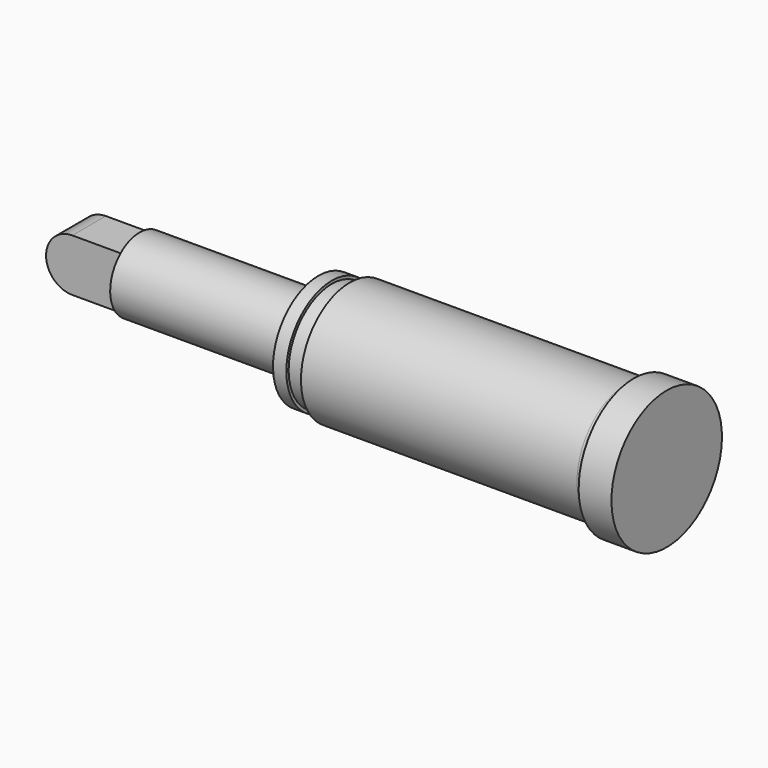
from build123d import *

# Parameters (mm, degrees)
F0_W     = 30.5150300264
F0_H     = 17.8250912577
F3_DEPTH = 10.16


with BuildPart() as f1:
    # F0 (on Front) → F1 (revolve)
    with BuildSketch(Plane.XZ):
        with BuildLine():
            Line((111.1383140087, 26.1370334774), (111.1383140087, 17.8250912577))
            Line((111.1383140087, 17.8250912577), (141.6533440351, 17.8250912577))
            Line((141.6533440351, 17.8250912577), (263.9216091484, 17.8250912577))
            Line((263.9216091484, 17.8250912577), (263.9216091484, 0))
            Line((263.9216091484, 0), (279.8266708851, 0))
            Line((279.8266708851, 0), (279.8266708851, 10.310467582))
            Line((279.8266708851, 10.310467582), (279.8266708851, 33.449973911))
            Line((279.8266708851, 33.449973911), (263.9216091484, 33.449973911))
            ThreePointArc((263.9216091484, 33.449973911), (262.77520204, 30.6823023219), (260.0075304508, 29.5358952135))
            Line((260.0075304508, 29.5358952135), (126.2801289558, 29.5358952135))
            Line((126.2801289558, 29.5358952135), (126.2801289558, 26.1370334774))
            Line((126.2801289558, 26.1370334774), (117.5876036286, 26.1370334774))
            Line((117.5876036286, 26.1370334774), (117.5876036286, 27.5390539318))
            Line((117.5876036286, 27.5390539318), (111.1383140087, 27.5390539318))
            Line((111.1383140087, 27.5390539318), (111.1383140087, 26.1370334774))
        make_face()
    revolve(axis=Axis((152.1537210792, 0, 0), (1, 0, 0)))


with BuildPart() as f2:
    # F0 (on Front) → F2 (revolve)
    with BuildSketch(Plane.XZ):
        Polygon((24.4807712734, 12.7), (24.4807712734, 0), (111.1383140087, 0), (111.1383140087, 17.8250912577), (24.4807712734, 17.8250912577), align=None)
        with Locations((126.3958290219, 8.9125456288)):
            Rectangle(F0_W, F0_H)
    revolve(axis=Axis((152.1537210792, 0, 0), (1, 0, 0)))

    # F0 (on Front) → F3 (join, symmetric)
    with BuildSketch(Plane.XZ):
        with BuildLine():
            ThreePointArc((0, 12.7), (8.9802561211, 8.9802561211), (12.7, 0))
            Line((12.7, 0), (24.4807712734, 0))
            Line((24.4807712734, 0), (24.4807712734, 12.7))
            Line((24.4807712734, 12.7), (0, 12.7))
        make_face()
        with BuildLine():
            Line((24.4807712734, 0), (12.7, 0))
            ThreePointArc((12.7, 0), (8.9802561211, -8.9802561211), (0, -12.7))
            Line((0, -12.7), (24.4807712734, -12.7))
            Line((24.4807712734, -12.7), (24.4807712734, 0))
        make_face()
        with BuildLine():
            Line((0, 0), (12.7, 0))
            ThreePointArc((12.7, 0), (8.9802561211, 8.9802561211), (0, 12.7))
            Line((0, 12.7), (0, 0))
        make_face()
        with BuildLine():
            ThreePointArc((0, -12.7), (8.9802561211, -8.9802561211), (12.7, 0))
            Line((12.7, 0), (0, 0))
            Line((0, 0), (0, -12.7))
        make_face()
        with BuildLine():
            Line((0, 0), (0, 12.7))
            ThreePointArc((0, 12.7), (-12.7, 0), (0, -12.7))
            Line((0, -12.7), (0, 0))
        make_face()
    extrude(amount=F3_DEPTH, both=True)


solid = Compound([f1.part, f2.part])
